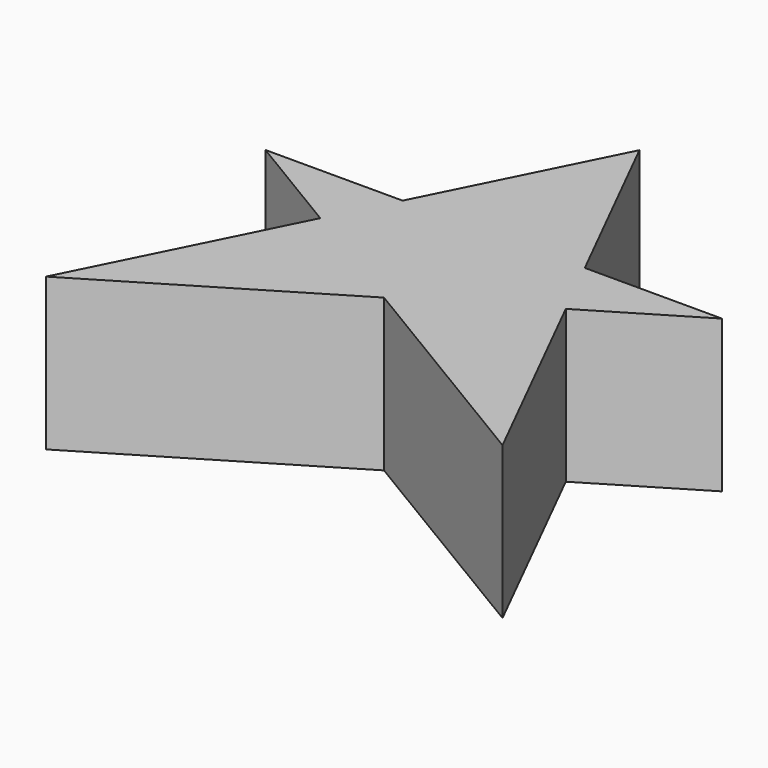
from build123d import *

# Parameters (mm, degrees)
F1_DEPTH = 25.4


with BuildPart() as f1:
    # F0 (on Top) → F1 (new body)
    with BuildSketch(Plane.XY):
        Polygon((38.1, 76.2), (22.8934809566, 45.7869619131), (53.3065190434, 45.7869619131), align=None)
        Polygon((22.8934809566, 45.7869619131), (0, 45.7869619131), (17.6044199078, 35.2088398157), align=None)
        Polygon((17.6044199078, 35.2088398157), (0, 0), (38.1, 22.8934809566), align=None)
        Polygon((38.1, 22.8934809566), (76.2, 0), (58.5955800922, 35.2088398157), align=None)
        Polygon((58.5955800922, 35.2088398157), (76.2, 45.7869619131), (53.3065190434, 45.7869619131), align=None)
        Polygon((17.6044199078, 35.2088398157), (38.1, 22.8934809566), (58.5955800922, 35.2088398157), (53.3065190434, 45.7869619131), (22.8934809566, 45.7869619131), align=None)
    extrude(amount=F1_DEPTH)


solid = f1.part
